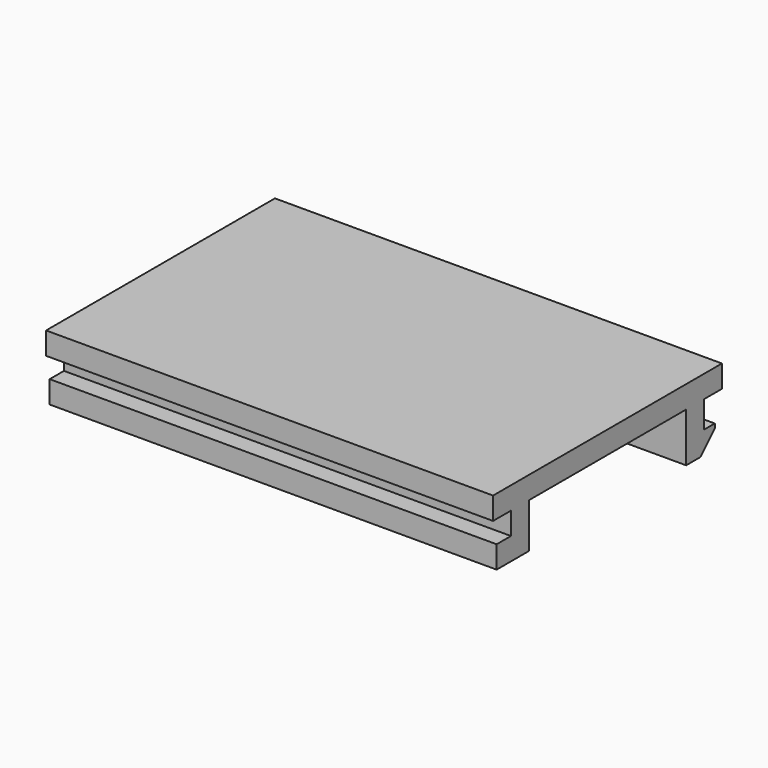
from build123d import *

# Parameters (mm, degrees)
F0_W     = 50
F0_H     = 2.5
F0_H_2   = 22
F1_DEPTH = 2.5
F2_DEPTH = 5
F3_W     = 50
F3_H     = 2.5
F4_DEPTH = 2
F5_DEPTH = 5.5
F6_W     = 50
F6_H     = 2.5
F7_DEPTH = 1.5
F8_SIZE  = 2


with BuildPart() as f1:
    # F0 (on Top) → F1 (new body)
    with BuildSketch(Plane.XY):
        with Locations((0, 14.75)):
            Rectangle(F0_W, F0_H)
        with Locations((0, 12.25)):
            Rectangle(F0_W, F0_H)
        Rectangle(F0_W, F0_H_2)
        with Locations((0, -12.25)):
            Rectangle(F0_W, F0_H)
        with Locations((0, -14.75)):
            Rectangle(F0_W, F0_H)
    extrude(amount=F1_DEPTH)

    # F0 (on Top) → F2 (join)
    with BuildSketch(Plane.XY):
        with Locations((0, -12.25)):
            Rectangle(F0_W, F0_H)
    extrude(amount=-F2_DEPTH)

    # F3 (on face) → F4 (join)
    with BuildSketch(Plane.XZ.offset(13.5)):
        with Locations((0, -3.75)):
            Rectangle(F3_W, F3_H)
    extrude(amount=F4_DEPTH)

    # F0 (on Top) → F5 (join)
    with BuildSketch(Plane.XY):
        with Locations((0, 12.25)):
            Rectangle(F0_W, F0_H)
    extrude(amount=-F5_DEPTH)

    # F6 (on face) → F7 (join)
    with BuildSketch(Plane(origin=(0, 13.5, 0), x_dir=(-1, 0, 0), z_dir=(0, 1, 0))):
        with Locations((0, -4.25)):
            Rectangle(F6_W, F6_H)
    extrude(amount=F7_DEPTH)

    # F8
    f8_edges = [f1.edges().sort_by_distance(p)[0] for p in [
        (0, 15, -5.5),
    ]]
    chamfer(f8_edges, length=F8_SIZE)


solid = f1.part
